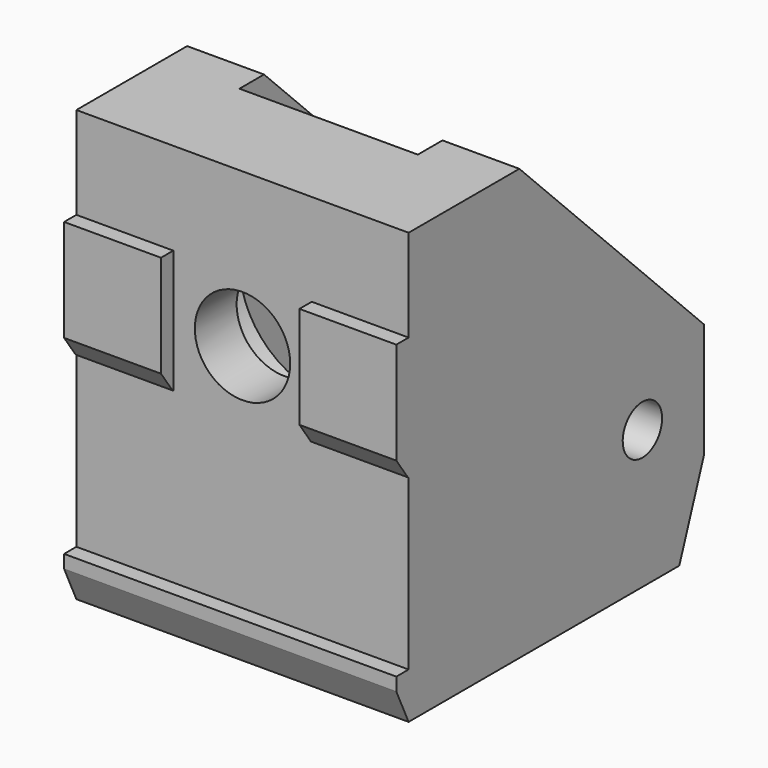
from build123d import *

# Parameters (mm, degrees)
CYLINDER_R              = 1.6
CYLINDER_DEPTH          = 22.6
CYLINDER001_R           = 3.1
CYLINDER001_DEPTH       = 25
CYLINDER002_R           = 5.8
CYLINDER002_DEPTH       = 25
CUBE002_W               = 22.6
CUBE002_H               = 1.1
CUBE002_DEPTH           = 11
CUBE003_W               = 22.6
CUBE003_H               = 1.1
CUBE003_DEPTH           = 11
CUBE004_W               = 30
CUBE004_H               = 3
CUBE004_DEPTH           = 8
CUBE004_PLACEMENT_ANGLE = 160
PRISM_DEPTH             = 2.5
CUBE005_W               = 22.6
CUBE005_H               = 6
CUBE005_DEPTH           = 6
CUBE005_PLACEMENT_ANGLE = 115
CUBE006_W               = 22.6
CUBE006_H               = 27
CUBE006_DEPTH           = 28
CUBE006_PLACEMENT_ANGLE = 45
CUBE007_W               = 22.6
CUBE007_H               = 10
CUBE007_DEPTH           = 10
CUBE007_PLACEMENT_ANGLE = 20
CYLINDER003_R           = 11
CYLINDER003_DEPTH       = 11.6
CUBE001_W               = 11.6
CUBE001_H               = 25
CUBE001_DEPTH           = 29
CUBE_W                  = 21.6
CUBE_H                  = 25
CUBE_DEPTH              = 28
SKETCH_W                = 9
SKETCH_H                = 8
POCKET_DEPTH            = 1
CHAMFER_SIZE            = 1


with BuildPart() as cylinder:
    # cylinder → cylinder (new body)
    with BuildSketch(Plane(origin=(-0.1, 20, 9), x_dir=(0, 0, -1), z_dir=(1, 0, 0))):
        Circle(CYLINDER_R)
    extrude(amount=CYLINDER_DEPTH)


with BuildPart() as cylinder001:
    # cylinder001 → cylinder001 (new body)
    with BuildSketch(Plane(origin=(10.8, -0.1, 18), x_dir=(1, 0, 0), z_dir=(0, 1, 0))):
        Circle(CYLINDER001_R)
    extrude(amount=CYLINDER001_DEPTH)


with BuildPart() as cylinder002:
    # cylinder002 → cylinder002 (new body)
    with BuildSketch(Plane(origin=(10.8, 4.4, 18), x_dir=(1, 0, 0), z_dir=(0, 1, 0))):
        Circle(CYLINDER002_R)
    extrude(amount=CYLINDER002_DEPTH)


with BuildPart() as cube002:
    # cube002 → cube002 (new body)
    with BuildSketch(Plane(origin=(-0.1, -0.1, 3), x_dir=(1, 0, 0), z_dir=(0, 0, 1))):
        with Locations((11.3, 0.55)):
            Rectangle(CUBE002_W, CUBE002_H)
    extrude(amount=CUBE002_DEPTH)


with BuildPart() as cube003:
    # cube003 → cube003 (new body)
    with BuildSketch(Plane(origin=(-0.1, -0.1, 22), x_dir=(1, 0, 0), z_dir=(0, 0, 1))):
        with Locations((11.3, 0.55)):
            Rectangle(CUBE003_W, CUBE003_H)
    extrude(amount=CUBE003_DEPTH)


with BuildPart() as cube004:
    # cube004 → cube004 (new body)
    with BuildSketch(Plane.XY):
        with Locations((15, 1.5)):
            Rectangle(CUBE004_W, CUBE004_H)
    extrude(amount=CUBE004_DEPTH)


with BuildPart() as cube004_1:
    # cube004 placement: moved
    add(cube004.part.moved(Location((-0.1, 1, 14))).rotate(Axis((-0.1, 1, 14), (1, 0, 0)), CUBE004_PLACEMENT_ANGLE))


with BuildPart() as prism:
    # prism → prism (new body)
    with BuildSketch(Plane(origin=(-0.1, 20, 9), x_dir=(0, 0, -1), z_dir=(1, 0, 0))):
        Polygon((3, 0), (1.5, 2.598076), (-1.5, 2.598076), (-3, 0), (-1.5, -2.598076), (1.5, -2.598076), align=None)
    extrude(amount=PRISM_DEPTH)


with BuildPart() as cube005:
    # cube005 → cube005 (new body)
    with BuildSketch(Plane.XY):
        with Locations((11.3, 3)):
            Rectangle(CUBE005_W, CUBE005_H)
    extrude(amount=CUBE005_DEPTH)


with BuildPart() as cube005_1:
    # cube005 placement: moved
    add(cube005.part.moved(Location((-0.1, 1, 0))).rotate(Axis((-0.1, 1, 0), (1, 0, 0)), CUBE005_PLACEMENT_ANGLE))


with BuildPart() as cube006:
    # cube006 → cube006 (new body)
    with BuildSketch(Plane.XY):
        with Locations((11.3, 13.5)):
            Rectangle(CUBE006_W, CUBE006_H)
    extrude(amount=CUBE006_DEPTH)


with BuildPart() as cube006_1:
    # cube006 placement: moved
    add(cube006.part.moved(Location((-0.1, 25, 13))).rotate(Axis((-0.1, 25, 13), (1, 0, 0)), CUBE006_PLACEMENT_ANGLE))


with BuildPart() as cube007:
    # cube007 → cube007 (new body)
    with BuildSketch(Plane.XY):
        with Locations((11.3, 5)):
            Rectangle(CUBE007_W, CUBE007_H)
    extrude(amount=CUBE007_DEPTH)


with BuildPart() as cube007_1:
    # cube007 placement: moved
    add(cube007.part.moved(Location((-0.1, 23, 0))).rotate(Axis((-0.1, 23, 0), (-1, 0, 0)), CUBE007_PLACEMENT_ANGLE))


with BuildPart() as cylinder003:
    # cylinder003 → cylinder003 (new body)
    with BuildSketch(Plane(origin=(5, 20, 9), x_dir=(0, 0, -1), z_dir=(1, 0, 0))):
        Circle(CYLINDER003_R)
    extrude(amount=CYLINDER003_DEPTH)


with BuildPart() as group:
    # cube001 → cube001 (new body)
    with BuildSketch(Plane(origin=(5, 8, -0.1), x_dir=(1, 0, 0), z_dir=(0, 0, 1))):
        with Locations((5.8, 12.5)):
            Rectangle(CUBE001_W, CUBE001_H)
    extrude(amount=CUBE001_DEPTH)

    # Group: union cylinder, cylinder001, cylinder002, cube002, cube003, cube004, prism, cube005, cube006, cube007, cylinder003
    add(cylinder.part)
    add(cylinder001.part)
    add(cylinder002.part)
    add(cube002.part)
    add(cube003.part)
    add(cube004_1.part)
    add(prism.part)
    add(cube005_1.part)
    add(cube006_1.part)
    add(cube007_1.part)
    add(cylinder003.part)


with BuildPart() as body:
    # cube → cube (new body)
    with BuildSketch(Plane.XY):
        with Locations((10.8, 12.5)):
            Rectangle(CUBE_W, CUBE_H)
    extrude(amount=CUBE_DEPTH)

    # difference: cut Group
    add(group.part, mode=Mode.SUBTRACT)

    # Sketch (on Face6 of BaseFeature) → Pocket (cut)
    with BuildSketch(Plane.XZ):
        with Locations((10.8, 18)):
            Rectangle(SKETCH_W, SKETCH_H)
    extrude(amount=-POCKET_DEPTH, mode=Mode.SUBTRACT)

    # Chamfer
    chamfer_edges = [body.edges().sort_by_distance(p)[0] for p in [
        (18.45, 0, 14.36397),
        (3.15, 0, 14.36397),
    ]]
    chamfer(chamfer_edges, length=CHAMFER_SIZE)


solid = body.part
